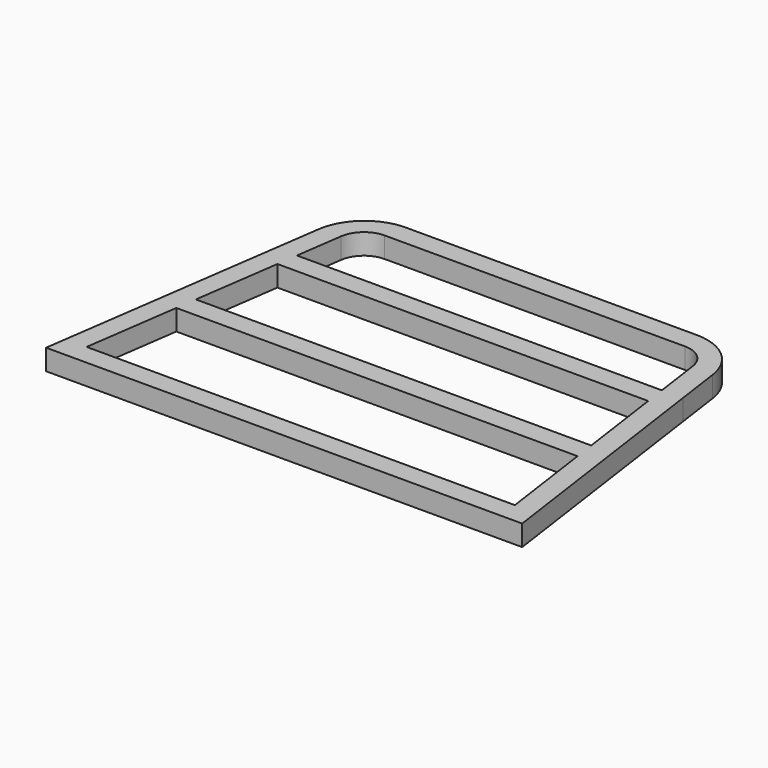
from build123d import *

# Parameters (mm, degrees)
F1_DEPTH = 12
F2_R     = 30
F3_R     = 15


with BuildPart() as f1:
    # F0 (on Top) → F1 (new body)
    with BuildSketch(Plane.XY):
        Polygon((39.4856995648, 193), (37.7842070275, 181), (137.5, 181), (237.2157929725, 181), (235.5143004352, 193), (137.5, 193), align=None)
        Polygon((27.3656716418, 193), (25.6641791045, 181), (37.7842070275, 181), (39.4856995648, 193), align=None)
        Polygon((25.6641791045, 181), (19.9925373134, 141), (32.1125652364, 141), (37.7842070275, 181), align=None)
        Polygon((19.9925373134, 141), (18.2910447761, 129), (30.4110726991, 129), (32.1125652364, 141), align=None)
        Polygon((237.2157929725, 181), (242.8874347636, 141), (255.0074626866, 141), (249.3358208955, 181), align=None)
        Polygon((235.5143004352, 193), (237.2157929725, 181), (249.3358208955, 181), (247.6343283582, 193), align=None)
        Polygon((242.8874347636, 141), (244.5889273009, 129), (256.7089552239, 129), (255.0074626866, 141), align=None)
        Polygon((244.5889273009, 129), (251.6784795397, 79), (263.7985074627, 79), (256.7089552239, 129), align=None)
        Polygon((251.6784795397, 79), (253.379972077, 67), (265.5, 67), (263.7985074627, 79), align=None)
        Polygon((23.3215204603, 79), (21.620027923, 67), (137.5, 67), (253.379972077, 67), (251.6784795397, 79), (137.5, 79), align=None)
        Polygon((253.379972077, 67), (261.1784795397, 12), (273.2985074627, 12), (265.5, 67), align=None)
        Polygon((261.1784795397, 12), (262.879972077, 0), (275, 0), (273.2985074627, 12), align=None)
        Polygon((13.8215204603, 12), (12.120027923, 0), (262.879972077, 0), (261.1784795397, 12), (137.5, 12), align=None)
        Polygon((1.7014925373, 12), (0, 0), (12.120027923, 0), (13.8215204603, 12), align=None)
        Polygon((9.5, 67), (1.7014925373, 12), (13.8215204603, 12), (21.620027923, 67), align=None)
        Polygon((11.2014925373, 79), (9.5, 67), (21.620027923, 67), (23.3215204603, 79), align=None)
        Polygon((18.2910447761, 129), (11.2014925373, 79), (23.3215204603, 79), (30.4110726991, 129), align=None)
        Polygon((32.1125652364, 141), (30.4110726991, 129), (137.5, 129), (244.5889273009, 129), (242.8874347636, 141), (137.5, 141), align=None)
    extrude(amount=F1_DEPTH)

    # F2
    f2_edges = [f1.edges().sort_by_distance(p)[0] for p in [
        (27.365672, 193, 6),
        (247.634328, 193, 6),
    ]]
    fillet(f2_edges, radius=F2_R)

    # F3
    f3_edges = [f1.edges().sort_by_distance(p)[0] for p in [
        (37.784207, 181, 6),
        (237.215793, 181, 6),
    ]]
    fillet(f3_edges, radius=F3_R)


solid = f1.part
